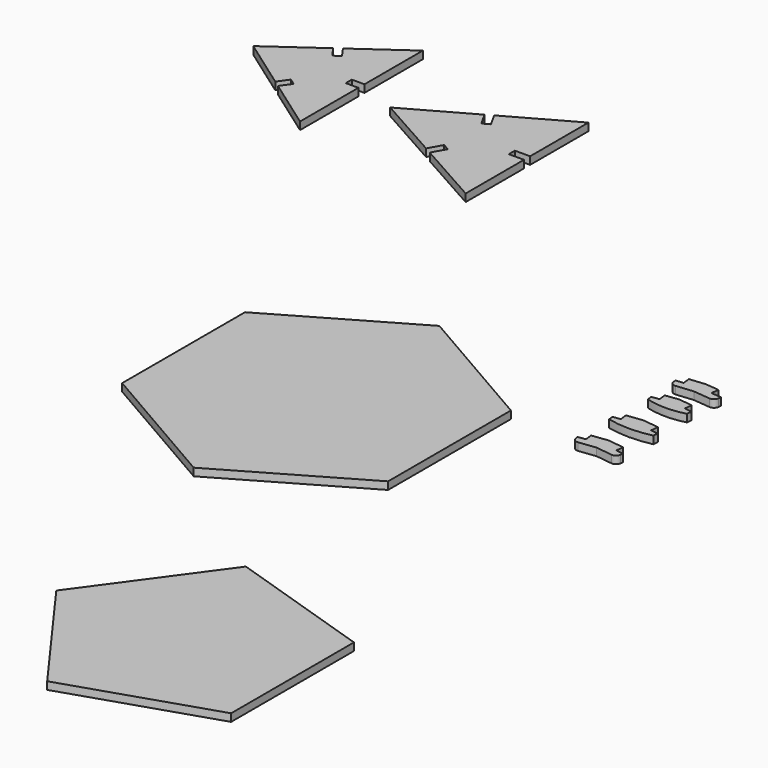
from build123d import *

# Parameters (mm, degrees)
F4_DEPTH = 3
F5_W     = 5
F5_H     = 3
F5_W_2   = 6
F6_DEPTH = 25


with BuildPart() as f4:
    # F3 (on Top) → F4 (new body)
    with BuildSketch(Plane.XY):
        Polygon((470.3941613828, -147.0885653714), (470.3941613828, -86.5635653714), (417.9779738188, -56.3010653714), (365.5617862547, -86.5635653714), (365.5617862547, -147.0885653714), (417.9779738188, -177.3510653714), align=None)
    extrude(amount=F4_DEPTH)


with BuildPart() as f4b:
    # F3 (on Top) → F4, piece 2 (new body)
    with BuildSketch(Plane.XY):
        Polygon((529.2567662146, -298.0174807028), (529.2567662146, -237.4924807028), (471.6940705658, -218.7892271182), (436.1183681708, -267.7549807028), (471.6940705658, -316.7207342873), align=None)
    extrude(amount=F4_DEPTH)


with BuildPart() as f4c:
    # F3 (on Top) → F4, piece 3 (new body)
    with BuildSketch(Plane.XY):
        Polygon((256.7136692096, 53.5715939384), (299.3566662168, 23.3090939384), (299.3566662168, 83.8340939384), align=None)
    extrude(amount=F4_DEPTH)


with BuildPart() as f4d:
    # F3 (on Top) → F4, piece 4 (new body)
    with BuildSketch(Plane.XY):
        Polygon((369.1518926518, 17.6854150152), (369.1518926518, 78.2104150152), (315.1996851552, 47.9479150152), align=None)
    extrude(amount=F4_DEPTH)


with BuildPart() as f4e:
    # F3 (on Top) → F4, piece 5 (new body)
    with BuildSketch(Plane.XY):
        with BuildLine():
            Line((499.7301674728, -42.1000808495), (506.4008064333, -41.4401412806))
            Line((506.4008064333, -41.4401412806), (513.0714453939, -42.1000808495))
            ThreePointArc((513.0714453939, -42.1000808495), (514.536459987, -41.6563714939), (515.2586318461, -40.3066998462))
            Line((515.2586318461, -40.3066998462), (515.3570832084, -39.3115579823))
            Line((515.3570832084, -39.3115579823), (511.3765157528, -38.9177525334))
            Line((511.3765157528, -38.9177525334), (511.6718698395, -35.9323269417))
            Line((511.6718698395, -35.9323269417), (506.4008064333, -35.4108501637))
            Line((506.4008064333, -35.4108501637), (500.1346011633, -36.0307783039))
            Line((500.1346011633, -36.0307783039), (500.42995525, -39.0162038956))
            Line((500.42995525, -39.0162038956), (497.4445296583, -39.3115579823))
            Line((497.4445296583, -39.3115579823), (497.5429810205, -40.3066998462))
            ThreePointArc((497.5429810205, -40.3066998462), (498.2651528796, -41.6563714939), (499.7301674728, -42.1000808495))
        make_face()
    extrude(amount=F4_DEPTH)


with BuildPart() as f4f:
    # F3 (on Top) → F4, piece 6 (new body)
    with BuildSketch(Plane.XY):
        with BuildLine():
            Line((514.0852315523, -54.4689418778), (506.4008064333, -53.4934037976))
            Line((506.4008064333, -53.4934037976), (498.7163813144, -54.4689418778))
            ThreePointArc((498.7163813144, -54.4689418778), (506.4008064333, -55.4934037976), (514.0852315523, -54.4689418778))
        make_face()
        Polygon((498.7163813144, -54.4689418778), (506.4008064333, -53.4934037976), (514.0852315523, -54.4689418778), (514.3371100693, -52.4848659688), (511.3609962058, -52.1070481933), (511.7388139814, -49.1309343298), (506.4008064333, -48.4532740552), (501.0627988853, -49.1309343298), (501.4406166609, -52.1070481933), (498.4645027974, -52.4848659688), align=None)
    extrude(amount=F4_DEPTH)


with BuildPart() as f4g:
    # F3 (on Top) → F4, piece 7 (new body)
    with BuildSketch(Plane.XY):
        with BuildLine():
            Line((515.1004217371, -72.3010336354), (506.4008064333, -71.2628973283))
            Line((506.4008064333, -71.2628973283), (497.7011911296, -72.3010336354))
            ThreePointArc((497.7011911296, -72.3010336354), (506.4008064333, -73.2628973283), (515.1004217371, -72.3010336354))
        make_face()
        Polygon((497.7011911296, -72.3010336354), (506.4008064333, -71.2628973283), (515.1004217371, -72.3010336354), (515.337402978, -70.3151232921), (512.3585374631, -69.9596514308), (512.7140093245, -66.9807859159), (506.4008064333, -66.2274232779), (500.0876035422, -66.9807859159), (500.4430754036, -69.9596514308), (497.4642098887, -70.3151232921), align=None)
    extrude(amount=F4_DEPTH)


with BuildPart() as f4h:
    # F3 (on Top) → F4, piece 8 (new body)
    with BuildSketch(Plane.XY):
        with BuildLine():
            Line((499.8320032248, -90.2472541053), (506.4008064333, -89.4174212789))
            Line((506.4008064333, -89.4174212789), (512.9696096418, -90.2472541053))
            ThreePointArc((512.9696096418, -90.2472541053), (514.4460902163, -89.8433347274), (515.2045055116, -88.5136911698))
            Line((515.2045055116, -88.5136911698), (515.3298387452, -87.5215764685))
            Line((515.3298387452, -87.5215764685), (512.3534946412, -87.1455767678))
            Line((512.3534946412, -87.1455767678), (512.7294943419, -84.1692326639))
            Line((512.7294943419, -84.1692326639), (506.4008064333, -83.369733454))
            Line((506.4008064333, -83.369733454), (500.0721185248, -84.1692326639))
            Line((500.0721185248, -84.1692326639), (500.4481182255, -87.1455767678))
            Line((500.4481182255, -87.1455767678), (497.4717741215, -87.5215764685))
            Line((497.4717741215, -87.5215764685), (497.5971073551, -88.5136911698))
            ThreePointArc((497.5971073551, -88.5136911698), (498.3555226504, -89.8433347274), (499.8320032248, -90.2472541053))
        make_face()
    extrude(amount=F4_DEPTH)


with BuildPart() as f6_tool:
    # F5 (on face) → F6 (new body)
    with BuildSketch(Plane.XY.offset(3)):
        with Locations((296.8566662168, 53.5715939384)):
            Rectangle(F5_W, F5_H)
        Polygon((282.1521498419, 65.4934112546), (279.2584321139, 69.5709592568), (276.8119033125, 67.83472862), (279.7056210406, 63.7571806178), align=None)
        Polygon((279.7056210406, 43.386007259), (276.8119033125, 39.3084592568), (279.2584321139, 37.57222862), (282.1521498419, 41.6497766222), align=None)
        with Locations((366.1518926518, 47.9479150152)):
            Rectangle(F5_W_2, F5_H)
        Polygon((346.4192953898, 58.5799814559), (343.4840383578, 63.8129792732), (340.8675394492, 62.3453507572), (343.8027964812, 57.1123529399), align=None)
        Polygon((343.8027964812, 38.7834770905), (340.8675394492, 33.5504792732), (343.4840383578, 32.0828507572), (346.4192953898, 37.3158485745), align=None)
    extrude(amount=-F6_DEPTH)


with BuildPart() as f4c_1:
    add(f4c.part)

    # F6: cut by f6_tool
    add(f6_tool.part, mode=Mode.SUBTRACT)


with BuildPart() as f4d_1:
    add(f4d.part)

    # F6: cut by f6_tool
    add(f6_tool.part, mode=Mode.SUBTRACT)


solid = Compound([f4.part, f4b.part, f4e.part, f4f.part, f4g.part, f4h.part, f4c_1.part, f4d_1.part])
